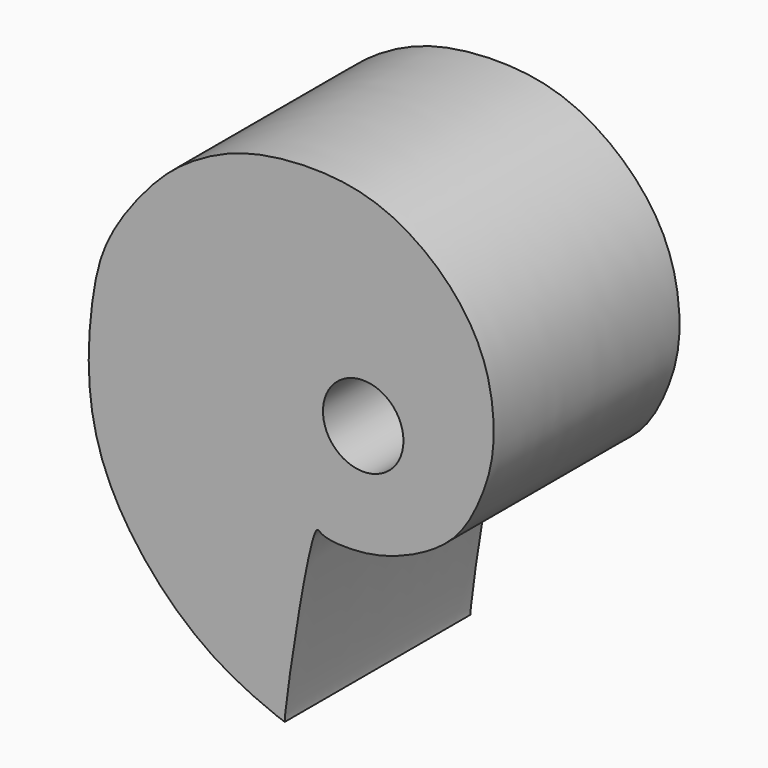
from build123d import *

# Parameters (mm, degrees)
F0_R     = 3.302
F1_DEPTH = 19.05


with BuildPart() as f1:
    # F0 (on Front) → F1 (new body)
    with BuildSketch(Plane.XZ):
        with BuildLine():
            add(Edge.make_bspline(
                [(-1.6442594351, -9.9143320695), (-2.4162315346, -11.0363931079), (-4.3925348379, -24.4629856197), (-4.1185465372, -24.6340487194), (-10.9673642535, -22.2175198278), (-18.3245793278, -14.1045328867), (-20.6540492108, -6.2404596866), (-20.0926288942, 1.3962768287), (-18.8655262778, 5.9897152826), (-15.1689237233, 10.8603046666), (-12.0830829353, 13.4781014414), (-7.1340113108, 16.0230028799), (0.3871465607, 16.4086034061), (5.4967095999, 14.6565309829), (9.8342326556, 11.2207282373), (12.6832212361, 6.5063654518), (13.1725431802, 0.616521279), (11.9090517865, -3.3158275018), (9.8608391859, -7.1878181572), (5.4540876135, -9.62082917), (2.0042707384, -10.4331377659), (-1.1494898378, -10.2817566906), (-1.5087251061, -9.717332994), (-1.6442594351, -9.9143320695)],
                knots=[0, 0, 0, 0, 0.0817771138, 0.0864705789, 0.1379513348, 0.2106126529, 0.2710808243, 0.3285793251, 0.3751242692, 0.4264505305, 0.469191664, 0.5185568168, 0.5763463973, 0.6254674229, 0.6744329057, 0.7239858507, 0.7746685648, 0.81758559, 0.8612445684, 0.9079238348, 0.9492938592, 0.9856424782, 1, 1, 1, 1], degree=3))
        make_face()
        with Locations((2.2062894423, -1.1018663645)):
            Circle(F0_R, mode=Mode.SUBTRACT)
    extrude(amount=F1_DEPTH)


solid = f1.part
